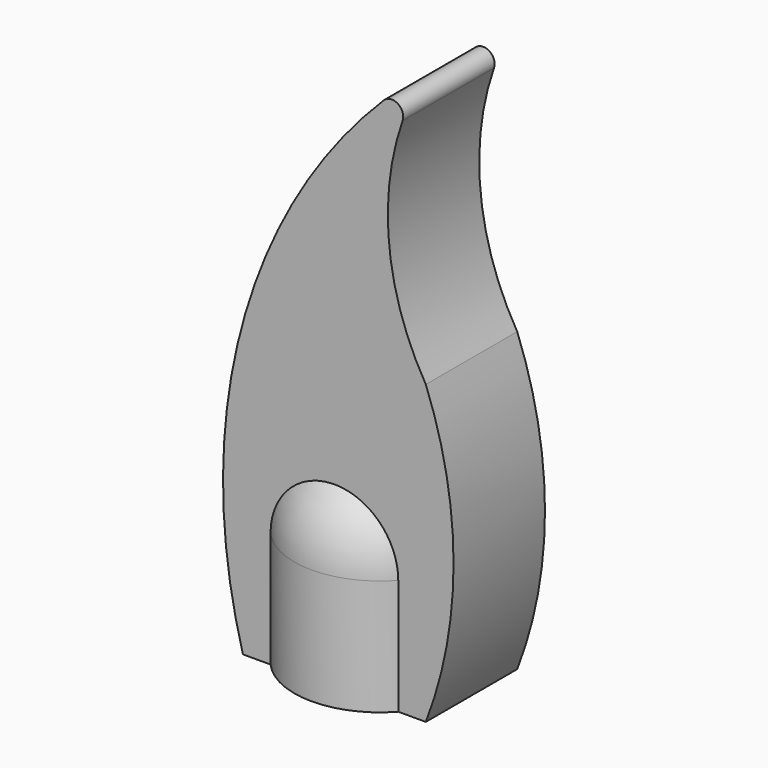
from build123d import *

# Parameters (mm, degrees)
CYLINDER_R        = 2.55
CYLINDER_DEPTH    = 7.6
FILLET_R          = 2.5
PAD_DEPTH         = 5
CYLINDER001_R     = 3.75
CYLINDER001_DEPTH = 8.8
FILLET001_R       = 3.74
FILLET002_R       = 0.5


with BuildPart() as led_clearance_to_be_removed:
    # Cylinder → Cylinder (new body)
    with BuildSketch(Plane.XY.offset(-0.01)):
        Circle(CYLINDER_R)
    extrude(amount=CYLINDER_DEPTH)

    # Fillet
    fillet_edges = [led_clearance_to_be_removed.edges().sort_by_distance(p)[0] for p in [
        (-2.55, 0, 7.59),
    ]]
    fillet(fillet_edges, radius=FILLET_R)


with BuildPart() as flame_shape:
    # Sketch → Pad (new body)
    with BuildSketch(Plane.XZ):
        with BuildLine():
            Line((-4, 0), (4, 0))
            ThreePointArc((4, 0), (5.213606, 6.5), (4, 13))
            ThreePointArc((4, 25), (2.338096, 19), (4, 13))
            ThreePointArc((4, 25), (-3.734918, 13.695174), (-4, 0))
        make_face()
    extrude(amount=PAD_DEPTH)


with BuildPart() as flame_shape_1:
    # Body placement: moved
    add(flame_shape.part.moved(Location((0, 2.5, 0))))


with BuildPart() as flame_diffuser:
    # Cylinder001 → Cylinder001 (new body)
    with BuildSketch(Plane.XY):
        Circle(CYLINDER001_R)
    extrude(amount=CYLINDER001_DEPTH)

    # Fillet001
    fillet001_edges = [flame_diffuser.edges().sort_by_distance(p)[0] for p in [
        (-3.75, 0, 8.8),
    ]]
    fillet(fillet001_edges, radius=FILLET001_R)

    # Fusion: union flame shape
    add(flame_shape_1.part)

    # Cut: cut led clearance to be removed
    add(led_clearance_to_be_removed.part, mode=Mode.SUBTRACT)

    # Fillet002
    fillet002_edges = [flame_diffuser.edges().sort_by_distance(p)[0] for p in [
        (4, 0, 25),
    ]]
    fillet(fillet002_edges, radius=FILLET002_R)


solid = flame_diffuser.part
